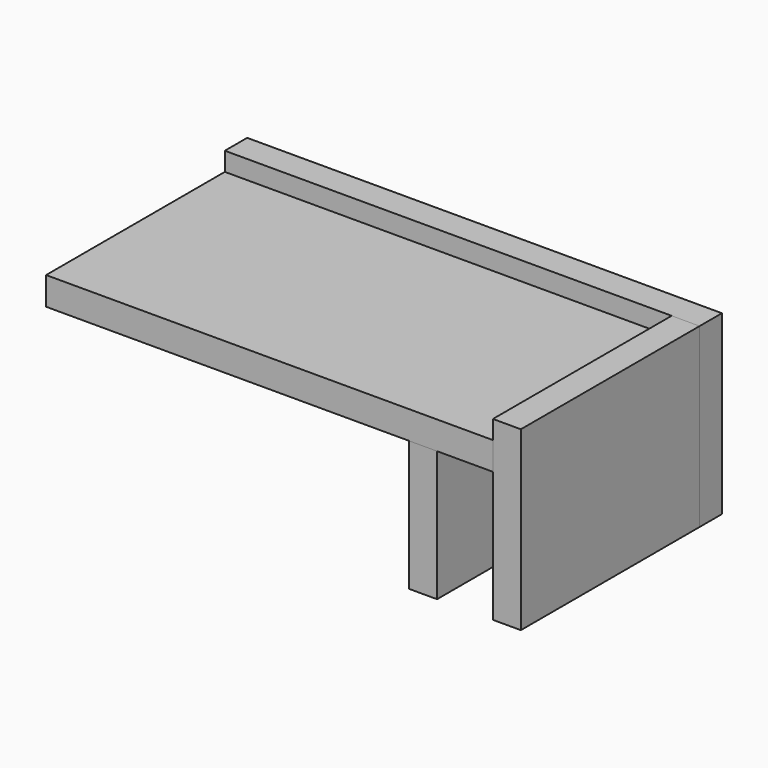
from build123d import *

# Parameters (mm, degrees)
F1_DEPTH = 152.4
F0_W     = 19.05
F0_H     = 88.9
F2_DEPTH = 152.4
F3_DEPTH = 152.4
F0_W_2   = 304.8
F0_H_2   = 12.7
F4_DEPTH = 19.05


with BuildPart() as f1:
    # F0 (on Front) → F1 (new body)
    with BuildSketch(Plane.XZ):
        Polygon((-63.5, 88.9), (-25.4, 88.9), (-25.4, 107.95), (-330.2, 107.95), (-330.2, 88.9), (-82.55, 88.9), align=None)
    extrude(amount=F1_DEPTH)


with BuildPart() as f2:
    # F0 (on Front) → F2 (new body, through all)
    with BuildSketch(Plane.XZ):
        with Locations((-73.025, 44.45)):
            Rectangle(F0_W, F0_H)
    extrude(amount=F2_DEPTH)


with BuildPart() as f3:
    # F0 (on Front) → F3 (new body, through all)
    with BuildSketch(Plane.XZ):
        Polygon((-25.4, 0), (-6.35, 0), (-6.35, 120.65), (-25.4, 120.65), (-25.4, 107.95), (-25.4, 88.9), align=None)
    extrude(amount=F3_DEPTH)


with BuildPart() as f4:
    # F0 (on Front) → F4 (new body)
    with BuildSketch(Plane.XZ):
        with Locations((-177.8, 114.3)):
            Rectangle(F0_W_2, F0_H_2)
        Polygon((-63.5, 88.9), (-25.4, 88.9), (-25.4, 107.95), (-330.2, 107.95), (-330.2, 88.9), (-82.55, 88.9), align=None)
        Polygon((-82.55, 0), (-82.55, 88.9), (-330.2, 88.9), (-88.9, 0), align=None)
        with Locations((-73.025, 44.45)):
            Rectangle(F0_W, F0_H)
        Polygon((-25.4, 0), (-6.35, 0), (-6.35, 120.65), (-25.4, 120.65), (-25.4, 107.95), (-25.4, 88.9), align=None)
    extrude(amount=-F4_DEPTH)


solid = Compound([f1.part, f2.part, f3.part, f4.part])
